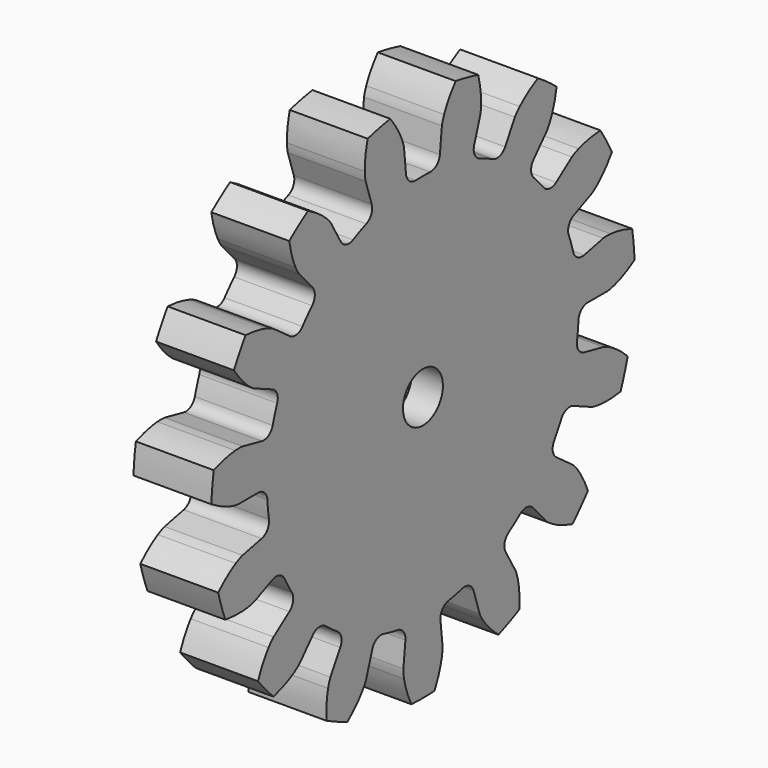
from build123d import *

# Parameters (mm, degrees)
PAD001_DEPTH            = 10
PRISM_DEPTH             = 6
CYLINDER001_R           = 3.2
CYLINDER001_DEPTH       = 10
BODY001_PLACEMENT_ANGLE = 90


with BuildPart() as part:
    # InvoluteGear → Pad001 (new body)
    with BuildSketch(Plane.XY):
        with BuildLine():
            Line((26.307572, -2.812765), (29.425933, -3.144244))
            add(Edge.make_bspline(
                [(29.425933, -3.144244), (29.555934, -3.150623), (29.947961, -3.154946), (30.604582, -3.03495)],
                knots=[0, 0, 0, 0, 1, 1, 1, 1], degree=3))
            add(Edge.make_bspline(
                [(30.604582, -3.03495), (31.391143, -2.889085), (32.529707, -2.565639), (33.951871, -1.857792)],
                knots=[0, 0, 0, 0, 1, 1, 1, 1], degree=3))
            ThreePointArc((33.951871, -1.857792), (34.002665, 0), (33.951871, 1.857792))
            add(Edge.make_bspline(
                [(33.951871, 1.857792), (32.529707, 2.565639), (31.391143, 2.889085), (30.604582, 3.03495)],
                knots=[0, 0, 0, 0, 1, 1, 1, 1], degree=3))
            add(Edge.make_bspline(
                [(30.604582, 3.03495), (29.947961, 3.154946), (29.555934, 3.150623), (29.425933, 3.144244)],
                knots=[0, 0, 0, 0, 1, 1, 1, 1], degree=3))
            Line((29.425933, 3.144244), (26.307572, 2.812765))
            ThreePointArc((26.307572, 2.812765), (25.240547, 3.109967), (24.66839, 4.058391))
            ThreePointArc((24.66839, 4.058391), (24.45369, 5.197792), (24.186392, 6.326013))
            ThreePointArc((24.186392, 6.326013), (24.323325, 7.425159), (25.177218, 8.130665))
            Line((25.177218, 8.130665), (28.160806, 9.096195))
            add(Edge.make_bspline(
                [(28.160806, 9.096195), (28.282163, 9.143244), (28.642056, 9.298747), (29.193102, 9.67544)],
                knots=[0, 0, 0, 0, 1, 1, 1, 1], degree=3))
            add(Edge.make_bspline(
                [(29.193102, 9.67544), (29.852332, 10.128618), (30.760905, 10.887196), (31.77221, 12.112293)],
                knots=[0, 0, 0, 0, 1, 1, 1, 1], degree=3))
            ThreePointArc((31.77221, 12.112293), (31.06298, 13.83013), (30.260946, 15.506647))
            add(Edge.make_bspline(
                [(30.260946, 15.506647), (28.673826, 15.574852), (27.502139, 15.407238), (26.724251, 15.22057)],
                knots=[0, 0, 0, 0, 1, 1, 1, 1], degree=3))
            add(Edge.make_bspline(
                [(26.724251, 15.22057), (26.075592, 15.06312), (25.719215, 14.899719), (25.603048, 14.841015)],
                knots=[0, 0, 0, 0, 1, 1, 1, 1], degree=3))
            Line((25.603048, 14.841015), (22.889108, 13.269842))
            ThreePointArc((22.889108, 13.269842), (21.793449, 13.107352), (20.884999, 13.741063))
            ThreePointArc((20.884999, 13.741063), (20.225425, 14.694631), (19.522347, 15.616592))
            ThreePointArc((19.522347, 15.616592), (19.200379, 16.676408), (19.693493, 17.668229))
            Line((19.693493, 17.668229), (22.026421, 19.76382))
            add(Edge.make_bspline(
                [(22.026421, 19.76382), (22.118149, 19.856161), (22.383679, 20.144602), (22.73387, 20.712859)],
                knots=[0, 0, 0, 0, 1, 1, 1, 1], degree=3))
            add(Edge.make_bspline(
                [(22.73387, 20.712859), (23.151783, 21.39499), (23.673264, 22.457535), (24.098845, 23.988052)],
                knots=[0, 0, 0, 0, 1, 1, 1, 1], degree=3))
            ThreePointArc((24.098845, 23.988052), (22.752224, 25.268904), (21.337628, 26.474263))
            add(Edge.make_bspline(
                [(21.337628, 26.474263), (19.859981, 25.891031), (18.857766, 25.26134), (18.223055, 24.774415)],
                knots=[0, 0, 0, 0, 1, 1, 1, 1], degree=3))
            add(Edge.make_bspline(
                [(18.223055, 24.774415), (17.694516, 24.366744), (17.435411, 24.072518), (17.353163, 23.97164)],
                knots=[0, 0, 0, 0, 1, 1, 1, 1], degree=3))
            Line((17.353163, 23.97164), (15.51291, 21.432443))
            ThreePointArc((15.51291, 21.432443), (14.578066, 20.838356), (13.490402, 21.04778))
            ThreePointArc((13.490402, 21.04778), (12.5, 21.650635), (11.482711, 22.206921))
            ThreePointArc((11.482711, 22.206921), (10.757513, 23.044154), (10.804585, 24.150796))
            Line((10.804585, 24.150796), (12.083467, 27.0141))
            add(Edge.make_bspline(
                [(12.083467, 27.0141), (12.129707, 27.135767), (12.254961, 27.507272), (12.343745, 28.168836)],
                knots=[0, 0, 0, 0, 1, 1, 1, 1], degree=3))
            add(Edge.make_bspline(
                [(12.343745, 28.168836), (12.448079, 28.961974), (12.4923, 30.144763), (12.25857, 31.716059)],
                knots=[0, 0, 0, 0, 1, 1, 1, 1], degree=3))
            ThreePointArc((12.25857, 31.716059), (10.507401, 32.338456), (8.72484, 32.864238))
            add(Edge.make_bspline(
                [(8.72484, 32.864238), (7.612164, 31.730416), (6.952714, 30.747527), (6.570927, 30.044538)],
                knots=[0, 0, 0, 0, 1, 1, 1, 1], degree=3))
            add(Edge.make_bspline(
                [(6.570927, 30.044538), (6.253897, 29.457136), (6.136865, 29.08296), (6.102759, 28.95735)],
                knots=[0, 0, 0, 0, 1, 1, 1, 1], degree=3))
            Line((6.102759, 28.95735), (5.454388, 25.88918))
            ThreePointArc((5.454388, 25.88918), (4.842003, 24.966219), (3.763192, 24.715145))
            ThreePointArc((3.763192, 24.715145), (2.613212, 24.863047), (1.45761, 24.957471))
            ThreePointArc((1.45761, 24.957471), (0.454575, 25.427357), (0.047466, 26.457471))
            Line((0.047466, 26.457471), (0.051172, 29.593397))
            add(Edge.make_bspline(
                [(0.051172, 29.593397), (0.043928, 29.723353), (0.007249, 30.113685), (-0.180725, 30.754166)],
                knots=[0, 0, 0, 0, 1, 1, 1, 1], degree=3))
            add(Edge.make_bspline(
                [(-0.180725, 30.754166), (-0.40801, 31.52117), (-0.848696, 32.619688), (-1.701322, 33.960071)],
                knots=[0, 0, 0, 0, 1, 1, 1, 1], degree=3))
            ThreePointArc((-1.701322, 33.960071), (-3.554246, 33.816395), (-5.396552, 33.571687))
            add(Edge.make_bspline(
                [(-5.396552, 33.571687), (-5.951865, 32.083323), (-6.154526, 30.917187), (-6.217375, 30.119688)],
                knots=[0, 0, 0, 0, 1, 1, 1, 1], degree=3))
            add(Edge.make_bspline(
                [(-6.217375, 30.119688), (-6.268077, 29.454122), (-6.2228, 29.064694), (-6.202867, 28.936071)],
                knots=[0, 0, 0, 0, 1, 1, 1, 1], degree=3))
            Line((-6.202867, 28.936071), (-5.547246, 25.869443))
            ThreePointArc((-5.547246, 25.869443), (-5.731286, 24.777196), (-6.614708, 24.109036))
            ThreePointArc((-6.614708, 24.109036), (-7.725425, 23.776413), (-8.819525, 23.392648))
            ThreePointArc((-8.819525, 23.392648), (-9.926963, 23.413938), (-10.71786, 24.189408))
            Line((-10.71786, 24.189408), (-11.989971, 27.055727))
            add(Edge.make_bspline(
                [(-11.989971, 27.055727), (-12.049447, 27.171501), (-12.241717, 27.513168), (-12.673947, 28.021821)],
                knots=[0, 0, 0, 0, 1, 1, 1, 1], degree=3))
            add(Edge.make_bspline(
                [(-12.673947, 28.021821), (-13.193551, 28.630069), (-14.042944, 29.454372), (-15.367041, 30.332079)],
                knots=[0, 0, 0, 0, 1, 1, 1, 1], degree=3))
            ThreePointArc((-15.367041, 30.332079), (-17.001332, 29.447172), (-18.58483, 28.474287))
            add(Edge.make_bspline(
                [(-18.58483, 28.474287), (-18.486762, 26.888733), (-18.197592, 25.740985), (-17.930635, 24.98687)],
                knots=[0, 0, 0, 0, 1, 1, 1, 1], degree=3))
            add(Edge.make_bspline(
                [(-17.930635, 24.98687), (-17.706244, 24.358222), (-17.506487, 24.020878), (-17.435962, 23.911483)],
                knots=[0, 0, 0, 0, 1, 1, 1, 1], degree=3))
            Line((-17.435962, 23.911483), (-15.589712, 21.376643))
            ThreePointArc((-15.589712, 21.376643), (-15.313584, 20.303971), (-15.848865, 19.334257))
            ThreePointArc((-15.848865, 19.334257), (-16.728265, 18.578621), (-17.571684, 17.783023))
            ThreePointArc((-17.571684, 17.783023), (-18.592039, 17.352038), (-19.629971, 17.738778))
            Line((-19.629971, 17.738778), (-21.957939, 19.839876))
            add(Edge.make_bspline(
                [(-21.957939, 19.839876), (-22.059363, 19.92145), (-22.373979, 20.155375), (-22.975728, 20.444248)],
                knots=[0, 0, 0, 0, 1, 1, 1, 1], degree=3))
            add(Edge.make_bspline(
                [(-22.975728, 20.444248), (-23.697806, 20.788569), (-24.80904, 21.196128), (-26.375658, 21.459394)],
                knots=[0, 0, 0, 0, 1, 1, 1, 1], degree=3))
            ThreePointArc((-26.375658, 21.459394), (-27.508734, 19.986265), (-28.559623, 18.453424))
            add(Edge.make_bspline(
                [(-28.559623, 18.453424), (-27.82513, 17.044836), (-27.094129, 16.113932), (-26.543526, 15.533595)],
                knots=[0, 0, 0, 0, 1, 1, 1, 1], degree=3))
            add(Edge.make_bspline(
                [(-26.543526, 15.533595), (-26.08284, 15.050565), (-25.763143, 14.823634), (-25.65422, 14.752382)],
                knots=[0, 0, 0, 0, 1, 1, 1, 1], degree=3))
            Line((-25.65422, 14.752382), (-22.936575, 13.187628))
            ThreePointArc((-22.936575, 13.187628), (-22.248024, 12.320005), (-22.342609, 11.216408))
            ThreePointArc((-22.342609, 11.216408), (-22.838636, 10.168416), (-23.285539, 9.098552))
            ThreePointArc((-23.285539, 9.098552), (-24.042382, 8.289812), (-25.147882, 8.220951))
            Line((-25.147882, 8.220951), (-28.12918, 9.19353))
            add(Edge.make_bspline(
                [(-28.12918, 9.19353), (-28.255014, 9.226799), (-28.637576, 9.312534), (-29.304797, 9.33168)],
                knots=[0, 0, 0, 0, 1, 1, 1, 1], degree=3))
            add(Edge.make_bspline(
                [(-29.304797, 9.33168), (-30.104496, 9.352537), (-31.285428, 9.27288), (-32.823685, 8.876186)],
                knots=[0, 0, 0, 0, 1, 1, 1, 1], degree=3))
            ThreePointArc((-32.823685, 8.876186), (-33.259625, 7.069552), (-33.596198, 5.241796))
            add(Edge.make_bspline(
                [(-33.596198, 5.241796), (-32.352281, 4.253732), (-31.305845, 3.700634), (-30.5668, 3.394421)],
                knots=[0, 0, 0, 0, 1, 1, 1, 1], degree=3))
            add(Edge.make_bspline(
                [(-30.5668, 3.394421), (-29.949477, 3.140528), (-29.565117, 3.06325), (-29.436631, 3.04246)],
                knots=[0, 0, 0, 0, 1, 1, 1, 1], degree=3))
            Line((-29.436631, 3.04246), (-26.317495, 2.718353))
            ThreePointArc((-26.317495, 2.718353), (-25.335579, 2.205798), (-24.973113, 1.159141))
            ThreePointArc((-24.973113, 1.159141), (-25, 0), (-24.973113, -1.159141))
            ThreePointArc((-24.973113, -1.159141), (-25.335579, -2.205798), (-26.317495, -2.718353))
            Line((-26.317495, -2.718353), (-29.436631, -3.04246))
            add(Edge.make_bspline(
                [(-29.436631, -3.04246), (-29.565117, -3.06325), (-29.949477, -3.140528), (-30.5668, -3.394421)],
                knots=[0, 0, 0, 0, 1, 1, 1, 1], degree=3))
            add(Edge.make_bspline(
                [(-30.5668, -3.394421), (-31.305845, -3.700634), (-32.352281, -4.253732), (-33.596198, -5.241796)],
                knots=[0, 0, 0, 0, 1, 1, 1, 1], degree=3))
            ThreePointArc((-33.596198, -5.241796), (-33.259625, -7.069552), (-32.823685, -8.876186))
            add(Edge.make_bspline(
                [(-32.823685, -8.876186), (-31.285428, -9.27288), (-30.104496, -9.352537), (-29.304797, -9.33168)],
                knots=[0, 0, 0, 0, 1, 1, 1, 1], degree=3))
            add(Edge.make_bspline(
                [(-29.304797, -9.33168), (-28.637576, -9.312534), (-28.255014, -9.226799), (-28.12918, -9.19353)],
                knots=[0, 0, 0, 0, 1, 1, 1, 1], degree=3))
            Line((-28.12918, -9.19353), (-25.147882, -8.220951))
            ThreePointArc((-25.147882, -8.220951), (-24.042382, -8.289812), (-23.285539, -9.098552))
            ThreePointArc((-23.285539, -9.098552), (-22.838636, -10.168416), (-22.342609, -11.216408))
            ThreePointArc((-22.342609, -11.216408), (-22.248024, -12.320005), (-22.936575, -13.187628))
            Line((-22.936575, -13.187628), (-25.65422, -14.752382))
            add(Edge.make_bspline(
                [(-25.65422, -14.752382), (-25.763143, -14.823634), (-26.08284, -15.050565), (-26.543526, -15.533595)],
                knots=[0, 0, 0, 0, 1, 1, 1, 1], degree=3))
            add(Edge.make_bspline(
                [(-26.543526, -15.533595), (-27.094129, -16.113932), (-27.82513, -17.044836), (-28.559623, -18.453424)],
                knots=[0, 0, 0, 0, 1, 1, 1, 1], degree=3))
            ThreePointArc((-28.559623, -18.453424), (-27.508734, -19.986265), (-26.375658, -21.459394))
            add(Edge.make_bspline(
                [(-26.375658, -21.459394), (-24.80904, -21.196128), (-23.697806, -20.788569), (-22.975728, -20.444248)],
                knots=[0, 0, 0, 0, 1, 1, 1, 1], degree=3))
            add(Edge.make_bspline(
                [(-22.975728, -20.444248), (-22.373979, -20.155375), (-22.059363, -19.92145), (-21.957939, -19.839876)],
                knots=[0, 0, 0, 0, 1, 1, 1, 1], degree=3))
            Line((-21.957939, -19.839876), (-19.629971, -17.738778))
            ThreePointArc((-19.629971, -17.738778), (-18.592039, -17.352038), (-17.571684, -17.783023))
            ThreePointArc((-17.571684, -17.783023), (-16.728265, -18.578621), (-15.848865, -19.334257))
            ThreePointArc((-15.848865, -19.334257), (-15.313584, -20.303971), (-15.589712, -21.376643))
            Line((-15.589712, -21.376643), (-17.435962, -23.911483))
            add(Edge.make_bspline(
                [(-17.435962, -23.911483), (-17.506487, -24.020878), (-17.706244, -24.358222), (-17.930635, -24.98687)],
                knots=[0, 0, 0, 0, 1, 1, 1, 1], degree=3))
            add(Edge.make_bspline(
                [(-17.930635, -24.98687), (-18.197592, -25.740985), (-18.486762, -26.888733), (-18.58483, -28.474287)],
                knots=[0, 0, 0, 0, 1, 1, 1, 1], degree=3))
            ThreePointArc((-18.58483, -28.474287), (-17.001332, -29.447172), (-15.367041, -30.332079))
            add(Edge.make_bspline(
                [(-15.367041, -30.332079), (-14.042944, -29.454372), (-13.193551, -28.630069), (-12.673947, -28.021821)],
                knots=[0, 0, 0, 0, 1, 1, 1, 1], degree=3))
            add(Edge.make_bspline(
                [(-12.673947, -28.021821), (-12.241717, -27.513168), (-12.049447, -27.171501), (-11.989971, -27.055727)],
                knots=[0, 0, 0, 0, 1, 1, 1, 1], degree=3))
            Line((-11.989971, -27.055727), (-10.71786, -24.189408))
            ThreePointArc((-10.71786, -24.189408), (-9.926963, -23.413938), (-8.819525, -23.392648))
            ThreePointArc((-8.819525, -23.392648), (-7.725425, -23.776413), (-6.614708, -24.109036))
            ThreePointArc((-6.614708, -24.109036), (-5.731286, -24.777196), (-5.547246, -25.869443))
            Line((-5.547246, -25.869443), (-6.202867, -28.936071))
            add(Edge.make_bspline(
                [(-6.202867, -28.936071), (-6.2228, -29.064694), (-6.268077, -29.454122), (-6.217375, -30.119688)],
                knots=[0, 0, 0, 0, 1, 1, 1, 1], degree=3))
            add(Edge.make_bspline(
                [(-6.217375, -30.119688), (-6.154526, -30.917187), (-5.951865, -32.083323), (-5.396552, -33.571687)],
                knots=[0, 0, 0, 0, 1, 1, 1, 1], degree=3))
            ThreePointArc((-5.396552, -33.571687), (-3.554246, -33.816395), (-1.701322, -33.960071))
            add(Edge.make_bspline(
                [(-1.701322, -33.960071), (-0.848696, -32.619688), (-0.40801, -31.52117), (-0.180725, -30.754166)],
                knots=[0, 0, 0, 0, 1, 1, 1, 1], degree=3))
            add(Edge.make_bspline(
                [(-0.180725, -30.754166), (0.007249, -30.113685), (0.043928, -29.723353), (0.051172, -29.593397)],
                knots=[0, 0, 0, 0, 1, 1, 1, 1], degree=3))
            Line((0.051172, -29.593397), (0.047466, -26.457471))
            ThreePointArc((0.047466, -26.457471), (0.454575, -25.427357), (1.45761, -24.957471))
            ThreePointArc((1.45761, -24.957471), (2.613212, -24.863047), (3.763192, -24.715145))
            ThreePointArc((3.763192, -24.715145), (4.842003, -24.966219), (5.454388, -25.88918))
            Line((5.454388, -25.88918), (6.102759, -28.95735))
            add(Edge.make_bspline(
                [(6.102759, -28.95735), (6.136865, -29.08296), (6.253897, -29.457136), (6.570927, -30.044538)],
                knots=[0, 0, 0, 0, 1, 1, 1, 1], degree=3))
            add(Edge.make_bspline(
                [(6.570927, -30.044538), (6.952714, -30.747527), (7.612164, -31.730416), (8.72484, -32.864238)],
                knots=[0, 0, 0, 0, 1, 1, 1, 1], degree=3))
            ThreePointArc((8.72484, -32.864238), (10.507401, -32.338456), (12.25857, -31.716059))
            add(Edge.make_bspline(
                [(12.25857, -31.716059), (12.4923, -30.144763), (12.448079, -28.961974), (12.343745, -28.168836)],
                knots=[0, 0, 0, 0, 1, 1, 1, 1], degree=3))
            add(Edge.make_bspline(
                [(12.343745, -28.168836), (12.254961, -27.507272), (12.129707, -27.135767), (12.083467, -27.0141)],
                knots=[0, 0, 0, 0, 1, 1, 1, 1], degree=3))
            Line((12.083467, -27.0141), (10.804585, -24.150796))
            ThreePointArc((10.804585, -24.150796), (10.757513, -23.044154), (11.482711, -22.206921))
            ThreePointArc((11.482711, -22.206921), (12.5, -21.650635), (13.490402, -21.04778))
            ThreePointArc((13.490402, -21.04778), (14.578066, -20.838356), (15.51291, -21.432443))
            Line((15.51291, -21.432443), (17.353163, -23.97164))
            add(Edge.make_bspline(
                [(17.353163, -23.97164), (17.435411, -24.072518), (17.694516, -24.366744), (18.223055, -24.774415)],
                knots=[0, 0, 0, 0, 1, 1, 1, 1], degree=3))
            add(Edge.make_bspline(
                [(18.223055, -24.774415), (18.857766, -25.26134), (19.859981, -25.891031), (21.337628, -26.474263)],
                knots=[0, 0, 0, 0, 1, 1, 1, 1], degree=3))
            ThreePointArc((21.337628, -26.474263), (22.752224, -25.268904), (24.098845, -23.988052))
            add(Edge.make_bspline(
                [(24.098845, -23.988052), (23.673264, -22.457535), (23.151783, -21.39499), (22.73387, -20.712859)],
                knots=[0, 0, 0, 0, 1, 1, 1, 1], degree=3))
            add(Edge.make_bspline(
                [(22.73387, -20.712859), (22.383679, -20.144602), (22.118149, -19.856161), (22.026421, -19.76382)],
                knots=[0, 0, 0, 0, 1, 1, 1, 1], degree=3))
            Line((22.026421, -19.76382), (19.693493, -17.668229))
            ThreePointArc((19.693493, -17.668229), (19.200379, -16.676408), (19.522347, -15.616592))
            ThreePointArc((19.522347, -15.616592), (20.225425, -14.694631), (20.884999, -13.741063))
            ThreePointArc((20.884999, -13.741063), (21.793449, -13.107352), (22.889108, -13.269842))
            Line((22.889108, -13.269842), (25.603048, -14.841015))
            add(Edge.make_bspline(
                [(25.603048, -14.841015), (25.719215, -14.899719), (26.075592, -15.06312), (26.724251, -15.22057)],
                knots=[0, 0, 0, 0, 1, 1, 1, 1], degree=3))
            add(Edge.make_bspline(
                [(26.724251, -15.22057), (27.502139, -15.407238), (28.673826, -15.574852), (30.260946, -15.506647)],
                knots=[0, 0, 0, 0, 1, 1, 1, 1], degree=3))
            ThreePointArc((30.260946, -15.506647), (31.06298, -13.83013), (31.77221, -12.112293))
            add(Edge.make_bspline(
                [(31.77221, -12.112293), (30.760905, -10.887196), (29.852332, -10.128618), (29.193102, -9.67544)],
                knots=[0, 0, 0, 0, 1, 1, 1, 1], degree=3))
            add(Edge.make_bspline(
                [(29.193102, -9.67544), (28.642056, -9.298747), (28.282163, -9.143244), (28.160806, -9.096195)],
                knots=[0, 0, 0, 0, 1, 1, 1, 1], degree=3))
            Line((28.160806, -9.096195), (25.177218, -8.130665))
            ThreePointArc((25.177218, -8.130665), (24.323325, -7.425159), (24.186392, -6.326013))
            ThreePointArc((24.186392, -6.326013), (24.45369, -5.197792), (24.66839, -4.058391))
            ThreePointArc((24.66839, -4.058391), (25.240547, -3.109967), (26.307572, -2.812765))
        make_face()
    extrude(amount=PAD001_DEPTH)

    # Prism → Prism (cut)
    with BuildSketch(Plane.XY):
        Polygon((5.8, 0), (2.9, 5.022947), (-2.9, 5.022947), (-5.8, 0), (-2.9, -5.022947), (2.9, -5.022947), align=None)
    extrude(amount=PRISM_DEPTH, mode=Mode.SUBTRACT)

    # Cylinder001 → Cylinder001 (cut)
    with BuildSketch(Plane.XY):
        Circle(CYLINDER001_R)
    extrude(amount=CYLINDER001_DEPTH, mode=Mode.SUBTRACT)


with BuildPart() as part_1:
    # Body001 placement: moved
    add(part.part.moved(Location((-10, 31, 9))).rotate(Axis((-10, 31, 9), (0, 1, 0)), BODY001_PLACEMENT_ANGLE))


solid = part_1.part
